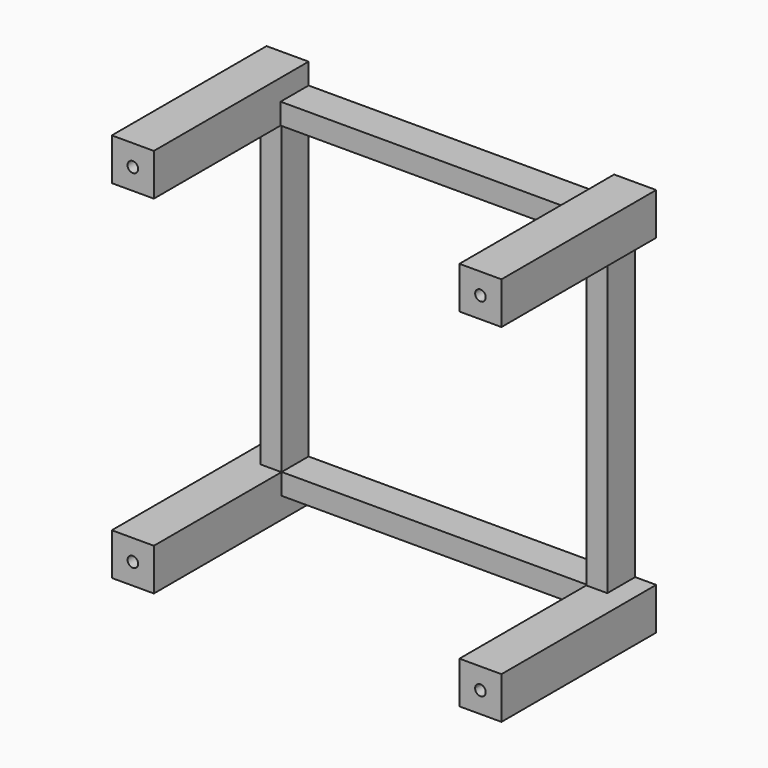
from build123d import *

# Parameters (mm, degrees)
F0_R     = 1.6
F0_W     = 92.3
F0_H     = 6.35
F0_W_2   = 6.35
F0_H_2   = 92.3
F1_DEPTH = 58.42
F2_W     = 48.1660993379
F2_H     = 92.3
F3_DEPTH = 25.4
F4_W     = 92.3
F4_H     = 48.2718696427
F5_DEPTH = 25.4
F6_W     = 47.9031776619
F6_H     = 92.3
F7_DEPTH = 25.4
F8_W     = 92.3
F8_H     = 47.8445788455
F9_DEPTH = 25.4


with BuildPart() as f1:
    # F0 (on Front) → F1 (new body)
    with BuildSketch(Plane.XZ):
        Polygon((-98.65, 105), (-98.65, 111.35), (-111.35, 111.35), (-111.35, 98.65), (-105, 98.65), (-98.65, 98.65), align=None)
        with Locations((-105, 105)):
            Circle(F0_R, mode=Mode.SUBTRACT)
        with Locations((-52.5, 101.825)):
            Rectangle(F0_W, F0_H)
        with Locations((-101.825, 52.5)):
            Rectangle(F0_W_2, F0_H_2)
        Polygon((-6.35, 111.35), (-6.35, 105), (-6.35, 98.65), (0, 98.65), (6.35, 98.65), (6.35, 111.35), align=None)
        with Locations((0, 105)):
            Circle(F0_R, mode=Mode.SUBTRACT)
        Polygon((-98.65, 0), (-98.65, 6.35), (-105, 6.35), (-111.35, 6.35), (-111.35, -6.35), (-98.65, -6.35), align=None)
        with Locations((-105, 0)):
            Circle(F0_R, mode=Mode.SUBTRACT)
        with Locations((-52.5, 3.175)):
            Rectangle(F0_W, F0_H)
        with Locations((-3.175, 52.5)):
            Rectangle(F0_W_2, F0_H_2)
        with BuildLine():
            Line((0, 6.35), (-6.35, 6.35))
            Line((-6.35, 6.35), (-6.35, 0))
            Line((-6.35, 0), (-1.6, 0))
            ThreePointArc((-1.6, 0), (-1.1313708499, 1.1313708499), (0, 1.6))
            Line((0, 1.6), (0, 6.35))
        make_face()
        with BuildLine():
            Line((-1.6, 0), (-6.35, 0))
            Line((-6.35, 0), (-6.35, -6.35))
            Line((-6.35, -6.35), (6.35, -6.35))
            Line((6.35, -6.35), (6.35, 6.35))
            Line((6.35, 6.35), (0, 6.35))
            Line((0, 6.35), (0, 1.6))
            ThreePointArc((0, 1.6), (1.1313708499, 1.1313708499), (1.6, 0))
            ThreePointArc((1.6, 0), (0, -1.6), (-1.6, 0))
        make_face()
    extrude(amount=F1_DEPTH)

    # F2 (on face) → F3 (cut)
    with BuildSketch(Plane(origin=(-105, 0, 0), x_dir=(0, -1, 0), z_dir=(-1, 0, 0))):
        with Locations((34.336950331, 52.5)):
            Rectangle(F2_W, F2_H)
    extrude(amount=-F3_DEPTH, mode=Mode.SUBTRACT)

    # F4 (on face) → F5 (cut)
    with BuildSketch(Plane(origin=(0, 0, 0), x_dir=(1, 0, 0), z_dir=(0, 0, -1))):
        with Locations((-52.5, 34.2840651786)):
            Rectangle(F4_W, F4_H)
    extrude(amount=-F5_DEPTH, mode=Mode.SUBTRACT)

    # F6 (on face) → F7 (cut)
    with BuildSketch(Plane.YZ):
        with Locations((-34.4684111691, 52.5)):
            Rectangle(F6_W, F6_H)
    extrude(amount=-F7_DEPTH, mode=Mode.SUBTRACT)

    # F8 (on face) → F9 (cut)
    with BuildSketch(Plane.XY.offset(105)):
        with Locations((-52.5, -34.4977105772)):
            Rectangle(F8_W, F8_H)
    extrude(amount=-F9_DEPTH, mode=Mode.SUBTRACT)


solid = f1.part
